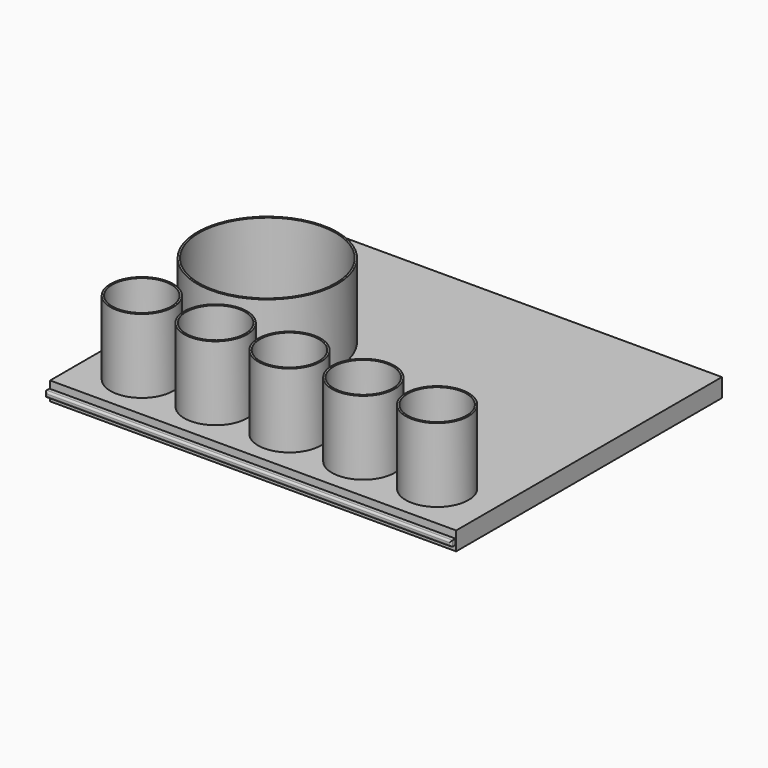
from build123d import *

# Parameters (mm, degrees)
SKETCH_W          = 220
SKETCH_H          = 180
PAD_DEPTH         = 10
BOX_W             = 220
BOX_H             = 3
BOX_DEPTH         = 3
FILLET_R          = 1
CYLINDER_R        = 17
CYLINDER_DEPTH    = 40
CYLINDER001_R     = 16
CYLINDER001_DEPTH = 40
CYLINDER002_R     = 17
CYLINDER002_DEPTH = 40
CYLINDER003_R     = 17
CYLINDER003_DEPTH = 40
CYLINDER004_R     = 17
CYLINDER004_DEPTH = 40
CYLINDER005_R     = 17
CYLINDER005_DEPTH = 40
CYLINDER006_R     = 16
CYLINDER006_DEPTH = 40
CYLINDER007_R     = 16
CYLINDER007_DEPTH = 40
CYLINDER008_R     = 16
CYLINDER008_DEPTH = 40
CYLINDER009_R     = 16
CYLINDER009_DEPTH = 40
CYLINDER012_R     = 38
CYLINDER012_DEPTH = 40
CYLINDER013_R     = 37
CYLINDER013_DEPTH = 40


with BuildPart() as part:
    # Sketch → Pad (new body)
    with BuildSketch(Plane.XY):
        with Locations((20.312759, 0)):
            Rectangle(SKETCH_W, SKETCH_H)
    extrude(amount=PAD_DEPTH)

    # Box → Box (join)
    with BuildSketch(Plane(origin=(-90, -93, 3), x_dir=(1, 0, 0), z_dir=(0, 0, 1))):
        with Locations((110, 1.5)):
            Rectangle(BOX_W, BOX_H)
    extrude(amount=BOX_DEPTH)

    # Fillet
    fillet_edges = [part.edges().sort_by_distance(p)[0] for p in [
        (20, -93, 3),
        (130, -93, 4.5),
        (20, -93, 6),
        (-90, -93, 4.5),
    ]]
    fillet(fillet_edges, radius=FILLET_R)

    # Cylinder → Cylinder (join)
    with BuildSketch(Plane(origin=(-60, -65, 10), x_dir=(1, 0, 0), z_dir=(0, 0, 1))):
        Circle(CYLINDER_R)
    extrude(amount=CYLINDER_DEPTH)

    # Cylinder001 → Cylinder001 (cut)
    with BuildSketch(Plane(origin=(-60, -65, 10), x_dir=(1, 0, 0), z_dir=(0, 0, 1))):
        Circle(CYLINDER001_R)
    extrude(amount=CYLINDER001_DEPTH, mode=Mode.SUBTRACT)

    # Cylinder002 → Cylinder002 (join)
    with BuildSketch(Plane(origin=(-20, -65, 10), x_dir=(1, 0, 0), z_dir=(0, 0, 1))):
        Circle(CYLINDER002_R)
    extrude(amount=CYLINDER002_DEPTH)

    # Cylinder003 → Cylinder003 (join)
    with BuildSketch(Plane(origin=(20, -65, 10), x_dir=(1, 0, 0), z_dir=(0, 0, 1))):
        Circle(CYLINDER003_R)
    extrude(amount=CYLINDER003_DEPTH)

    # Cylinder004 → Cylinder004 (join)
    with BuildSketch(Plane(origin=(60, -65, 10), x_dir=(1, 0, 0), z_dir=(0, 0, 1))):
        Circle(CYLINDER004_R)
    extrude(amount=CYLINDER004_DEPTH)

    # Cylinder005 → Cylinder005 (join)
    with BuildSketch(Plane(origin=(100, -65, 10), x_dir=(1, 0, 0), z_dir=(0, 0, 1))):
        Circle(CYLINDER005_R)
    extrude(amount=CYLINDER005_DEPTH)

    # Cylinder006 → Cylinder006 (cut)
    with BuildSketch(Plane(origin=(-20, -65, 10), x_dir=(1, 0, 0), z_dir=(0, 0, 1))):
        Circle(CYLINDER006_R)
    extrude(amount=CYLINDER006_DEPTH, mode=Mode.SUBTRACT)

    # Cylinder007 → Cylinder007 (cut)
    with BuildSketch(Plane(origin=(20, -65, 10), x_dir=(1, 0, 0), z_dir=(0, 0, 1))):
        Circle(CYLINDER007_R)
    extrude(amount=CYLINDER007_DEPTH, mode=Mode.SUBTRACT)

    # Cylinder008 → Cylinder008 (cut)
    with BuildSketch(Plane(origin=(60, -65, 10), x_dir=(1, 0, 0), z_dir=(0, 0, 1))):
        Circle(CYLINDER008_R)
    extrude(amount=CYLINDER008_DEPTH, mode=Mode.SUBTRACT)

    # Cylinder009 → Cylinder009 (cut)
    with BuildSketch(Plane(origin=(100, -65, 10), x_dir=(1, 0, 0), z_dir=(0, 0, 1))):
        Circle(CYLINDER009_R)
    extrude(amount=CYLINDER009_DEPTH, mode=Mode.SUBTRACT)

    # Cylinder012 → Cylinder012 (join)
    with BuildSketch(Plane(origin=(-40, -5, 10), x_dir=(1, 0, 0), z_dir=(0, 0, 1))):
        Circle(CYLINDER012_R)
    extrude(amount=CYLINDER012_DEPTH)

    # Cylinder013 → Cylinder013 (cut)
    with BuildSketch(Plane(origin=(-40, -5, 10), x_dir=(1, 0, 0), z_dir=(0, 0, 1))):
        Circle(CYLINDER013_R)
    extrude(amount=CYLINDER013_DEPTH, mode=Mode.SUBTRACT)


solid = part.part
